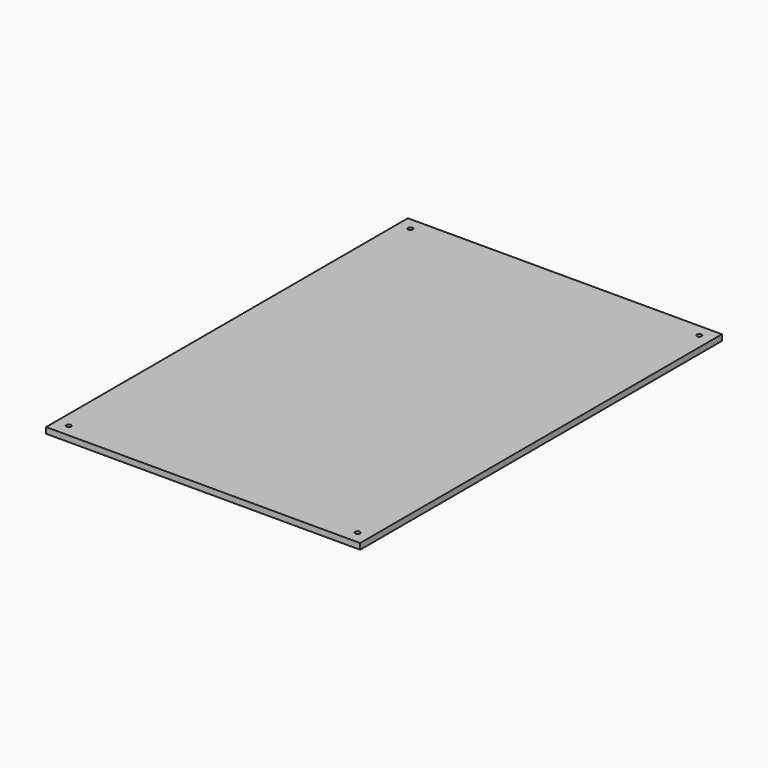
from build123d import *

# Parameters (mm, degrees)
F0_W     = 635
F0_H     = 914.4
F0_W_2   = 611
F0_H_2   = 890.4
F1_DEPTH = 6
F2_R     = 4.7625
F3_DEPTH = 25.4


with BuildPart() as f1:
    # F0 (on Top) → F1 (new body, symmetric)
    with BuildSketch(Plane.XY):
        Rectangle(F0_W, F0_H)
        Rectangle(F0_W_2, F0_H_2, mode=Mode.SUBTRACT)
        Rectangle(F0_W_2, F0_H_2)
    extrude(amount=F1_DEPTH, both=True)

    # F2 (on face) → F3 (cut)
    with BuildSketch(Plane.XY.offset(6)):
        with Locations((-292.1, 431.8)):
            Circle(F2_R)
        with Locations((292.1, 431.8)):
            Circle(F2_R)
        with Locations((-292.1, -431.8)):
            Circle(F2_R)
        with Locations((292.1, -431.8)):
            Circle(F2_R)
    extrude(amount=-F3_DEPTH, mode=Mode.SUBTRACT)


solid = f1.part
